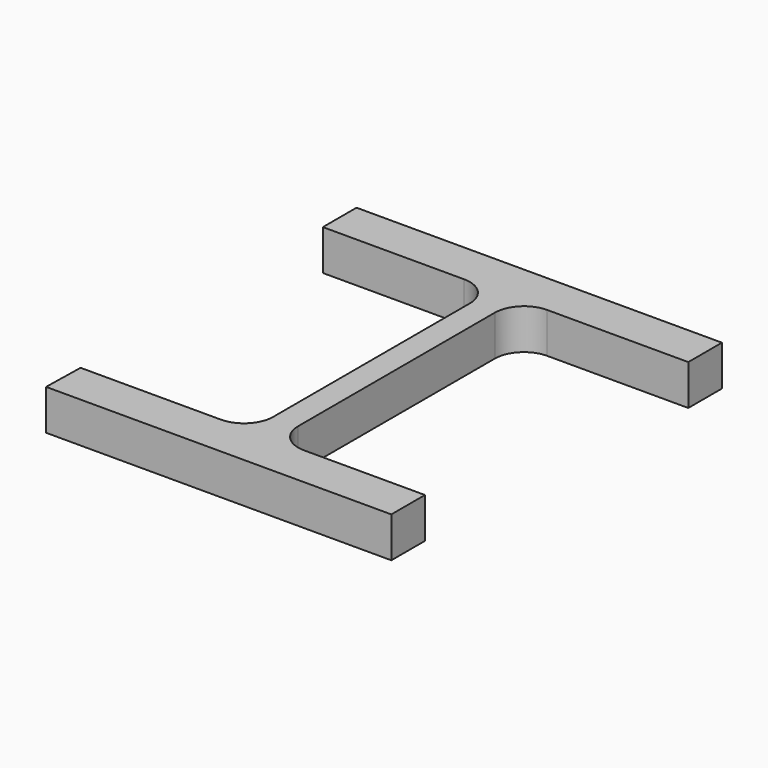
from build123d import *

# Parameters (mm, degrees)
F1_DEPTH = 25


with BuildPart() as f1:
    # F0 (on Top) → F1 (new body)
    with BuildSketch(Plane.XY):
        with BuildLine():
            Line((121.561594, 52.757246), (-104.438406, 52.757246))
            Line((-104.438406, 52.757246), (-104.438406, 26.757246))
            Line((-104.438406, 26.757246), (-17.188406, 26.757246))
            ThreePointArc((-17.188406, 26.757246), (-4.460484, 21.485168), (0.811594, 8.757246))
            Line((0.811594, 8.757246), (0.811594, -143.248167))
            ThreePointArc((0.811594, -143.248167), (-4.460484, -155.976089), (-17.188406, -161.248167))
            Line((-17.188406, -161.248167), (-103.907911, -161.248167))
            Line((-103.907911, -161.248167), (-104.438406, -187.242754))
            Line((-104.438406, -187.242754), (109.092089, -187.242754))
            Line((109.092089, -187.242754), (109.092089, -161.248167))
            Line((109.092089, -161.248167), (34.311594, -161.248167))
            ThreePointArc((34.311594, -161.248167), (21.583672, -155.976089), (16.311594, -143.248167))
            Line((16.311594, -143.248167), (16.311594, 8.757246))
            ThreePointArc((16.311594, 8.757246), (21.583672, 21.485168), (34.311594, 26.757246))
            Line((34.311594, 26.757246), (121.561594, 26.757246))
            Line((121.561594, 26.757246), (121.561594, 52.757246))
        make_face()
    extrude(amount=F1_DEPTH)


solid = f1.part
